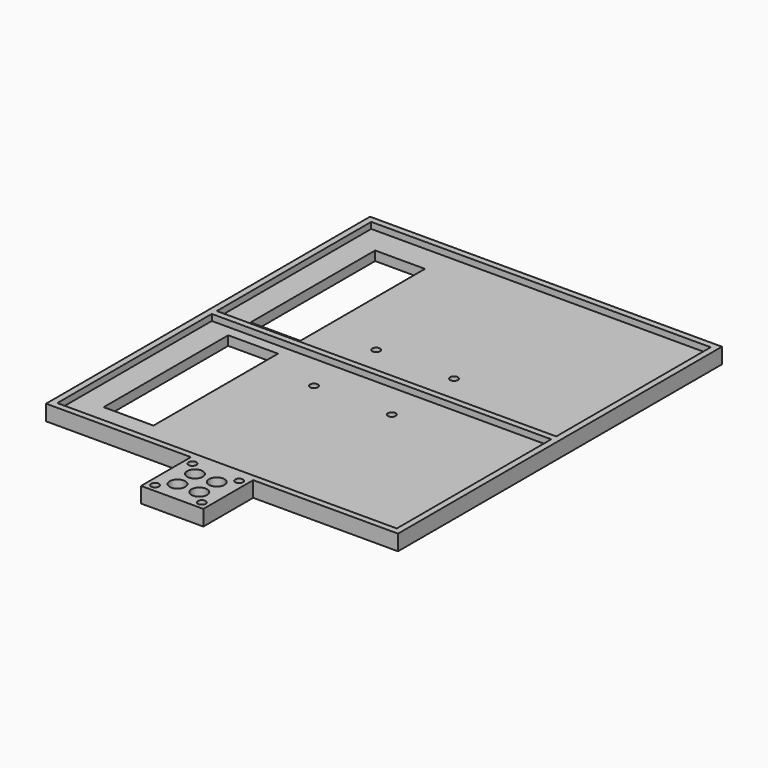
from build123d import *

# Parameters (mm, degrees)
F0_W      = 20
F0_H      = 20
F1_DEPTH  = 5
F3_D      = 2.5
F4_D      = 5
F5_W      = 109
F5_H      = 62
F6_DEPTH  = 2
F8_D      = 2.5
F9_W      = 16
F9_H      = 50
F10_DEPTH = 5.001


with BuildPart() as f1:
    # F0 (on Top) → F1 (new body)
    with BuildSketch(Plane.XY):
        Polygon((56.5, -65), (56.5, 65), (-56.5, 65), (-56.5, -65), (-10, -65), (-10, -45), (10, -45), (10, -65), align=None)
        with Locations((0, -75)):
            Rectangle(F0_W, F0_H)
        with Locations((0, -55)):
            Rectangle(F0_W, F0_H)
    extrude(amount=F1_DEPTH)

    # F3 (through all)
    with Locations(Plane.XY.offset(5)):
        with Locations((-7.5, -82.5), (-7.5, -67.5), (7.5, -67.5), (7.5, -82.5)):
            Hole(F3_D / 2)

    # F4 (through all)
    with Locations(Plane.XY.offset(5)):
        with Locations((-3.5, -71.5), (3.5, -71.5), (3.5, -78.5), (-3.5, -78.5)):
            Hole(F4_D / 2)

    # F5 (on face) → F6 (cut)
    with BuildSketch(Plane.XY.offset(5)):
        with Locations((0, 32)):
            Rectangle(F5_W, F5_H)
        with Locations((0, -32)):
            Rectangle(F5_W, F5_H)
    extrude(amount=-F6_DEPTH, mode=Mode.SUBTRACT)

    # F8 (through all)
    with Locations(Plane(origin=(0, 0, 0), x_dir=(1, 0, 0), z_dir=(0, 0, -1))):
        with Locations((-12.5, 12.5), (12.5, 12.5), (12.5, -12.5), (-12.5, -12.5)):
            Hole(F8_D / 2)

    # F9 (on face) → F10 (cut, through all)
    with BuildSketch(Plane(origin=(0, 0, 0), x_dir=(1, 0, 0), z_dir=(0, 0, -1))):
        with Locations((-38.4313402772, 29.4842413627)):
            Rectangle(F9_W, F9_H)
        with Locations((-38.4313402772, -29.4842413627)):
            Rectangle(F9_W, F9_H)
    extrude(amount=-F10_DEPTH, mode=Mode.SUBTRACT)


solid = f1.part
